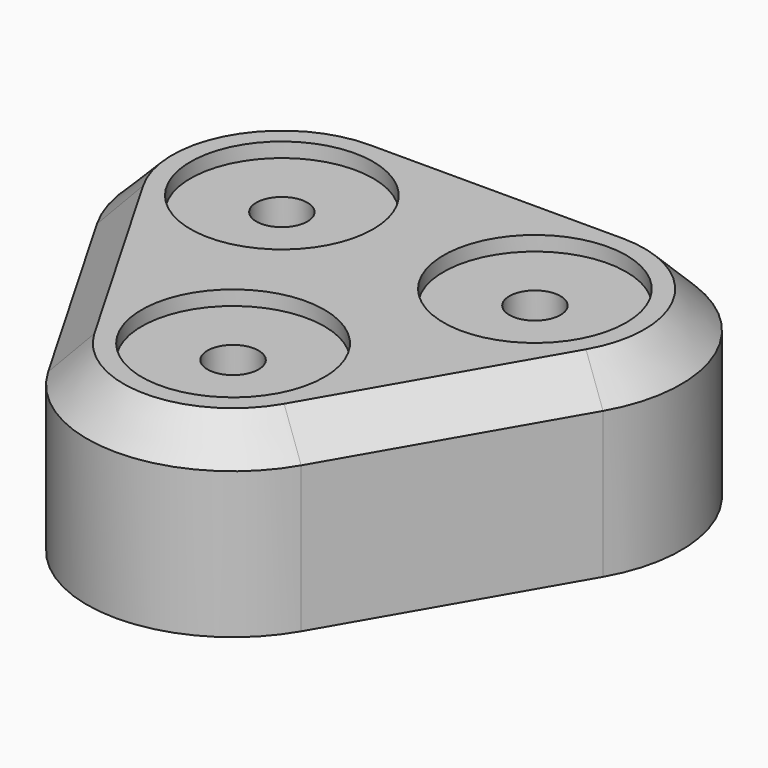
from build123d import *

# Parameters (mm, degrees)
F1_DEPTH = 25
F2_R     = 12.5
F3_DEPTH = 2
F4_R     = 3.5
F5_DEPTH = 6
F6_SIZE  = 5
F8_DEPTH = 15


with BuildPart() as f1:
    # F0 (on Top) → F1 (new body)
    with BuildSketch(Plane.XY):
        with BuildLine():
            Line((17.320508, 30), (-17.320508, 30))
            ThreePointArc((-17.320508, 30), (-34.641016, 20), (-34.641016, 0))
            Line((-34.641016, 0), (-17.320508, -30))
            ThreePointArc((-17.320508, -30), (0, -40), (17.320508, -30))
            Line((17.320508, -30), (34.641016, 0))
            ThreePointArc((34.641016, 0), (34.641016, 20), (17.320508, 30))
        make_face()
    extrude(amount=F1_DEPTH)

    # F2 (on face) → F3 (cut)
    with BuildSketch(Plane.XY.offset(25)):
        with Locations((-17.320508, 10)):
            Circle(F2_R)
        with Locations((0, -20)):
            Circle(F2_R)
        with Locations((17.320508, 10)):
            Circle(F2_R)
    extrude(amount=-F3_DEPTH, mode=Mode.SUBTRACT)

    # F4 (on face) → F5 (cut)
    with BuildSketch(Plane.XY.offset(23)):
        with Locations((-17.320508, 10)):
            Circle(F4_R)
        with Locations((0, -20)):
            Circle(F4_R)
        with Locations((17.320508, 10)):
            Circle(F4_R)
    extrude(amount=-F5_DEPTH, mode=Mode.SUBTRACT)

    # F6
    f6_edges = [f1.edges().sort_by_distance(p)[0] for p in [
        (25.980762, -15, 25),
    ]]
    chamfer(f6_edges, length=F6_SIZE)

    # F7 (on face) → F8 (cut)
    with BuildSketch(Plane(origin=(0, 0, 0), x_dir=(1, 0, 0), z_dir=(0, 0, -1))):
        with BuildLine():
            ThreePointArc((12.990381, 27.5), (0, 35), (-12.990381, 27.5))
            Line((-12.990381, 27.5), (-30.310889, -2.5))
            ThreePointArc((-30.310889, -2.5), (-30.310889, -17.5), (-17.320508, -25))
            Line((-17.320508, -25), (17.320508, -25))
            ThreePointArc((17.320508, -25), (30.310889, -17.5), (30.310889, -2.5))
            Line((30.310889, -2.5), (12.990381, 27.5))
        make_face()
    extrude(amount=-F8_DEPTH, mode=Mode.SUBTRACT)


solid = f1.part
